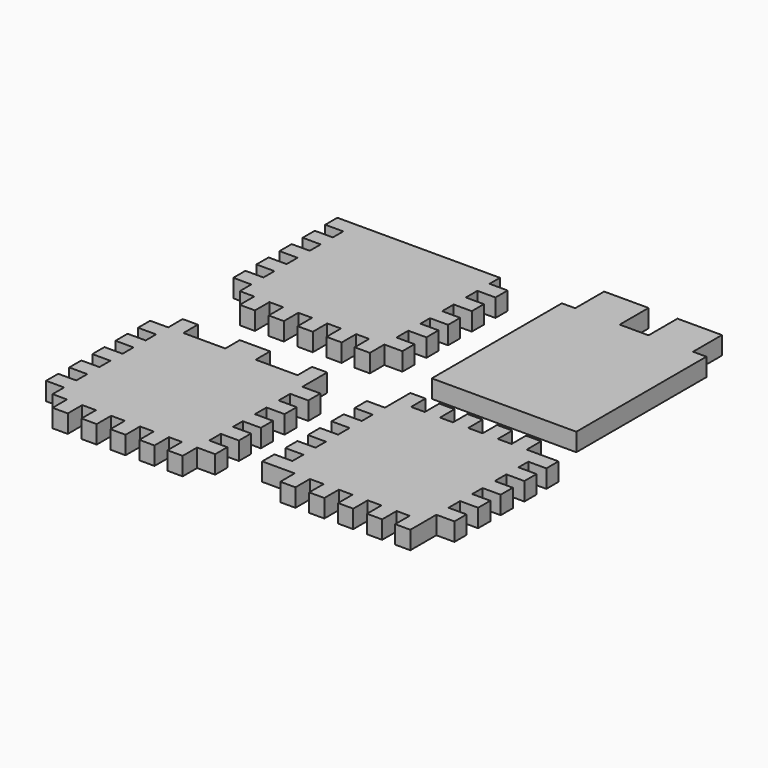
from build123d import *

# Parameters (mm, degrees)
F0_W     = 5.334
F0_H     = 6.35
F0_W_2   = 6.35
F0_H_2   = 5.334
F1_DEPTH = 6.35
F2_W     = 5.334
F2_H     = 6.35
F2_W_2   = 6.35
F2_H_2   = 5.334
F3_DEPTH = 6.35
F4_W     = 5.334
F4_H     = 6.35
F4_W_2   = 6.35
F4_H_2   = 5.334
F5_DEPTH = 6.35
F6_W     = 15.621
F6_H     = 12.7
F7_DEPTH = 6.35


with BuildPart() as f1:
    # F0 (on Top) → F1 (new body)
    with BuildSketch(Plane.XY):
        with Locations((-13.474236, 14.841236)):
            Rectangle(F0_W, F0_H)
        Polygon((-16.141236, 18.016236), (-10.807236, 18.016236), (-10.807236, 23.350236), (-10.807236, 28.557236), (-10.807236, 33.891236), (-10.807236, 38.082236), (-10.807236, 43.416236), (-10.807236, 48.496236), (-10.807236, 53.830236), (-10.807236, 58.910236), (-10.807236, 64.244236), (-10.807236, 68.816236), (-61.607236, 68.816236), (-61.607236, 63.482236), (-61.607236, 58.910236), (-61.607236, 53.576236), (-61.607236, 48.750236), (-61.607236, 43.416236), (-61.607236, 38.590236), (-61.607236, 33.256236), (-61.607236, 28.430236), (-61.607236, 23.096236), (-61.607236, 18.016236), (-56.527236, 18.016236), (-51.193236, 18.016236), (-46.367236, 18.016236), (-41.033236, 18.016236), (-36.207236, 18.016236), (-30.873236, 18.016236), (-26.047236, 18.016236), (-20.713236, 18.016236), align=None)
        with Locations((-7.632236, 20.683236)):
            Rectangle(F0_W_2, F0_H_2)
        with Locations((-23.380236, 14.841236)):
            Rectangle(F0_W, F0_H)
        with Locations((-7.632236, 31.224236)):
            Rectangle(F0_W_2, F0_H_2)
        with Locations((-33.540236, 14.841236)):
            Rectangle(F0_W, F0_H)
        with Locations((-7.632236, 40.749236)):
            Rectangle(F0_W_2, F0_H_2)
        with Locations((-43.700236, 14.841236)):
            Rectangle(F0_W, F0_H)
        with Locations((-7.632236, 51.163236)):
            Rectangle(F0_W_2, F0_H_2)
        with Locations((-53.860236, 14.841236)):
            Rectangle(F0_W, F0_H)
        with Locations((-7.632236, 61.577236)):
            Rectangle(F0_W_2, F0_H_2)
        with Locations((-64.782236, 25.763236)):
            Rectangle(F0_W_2, F0_H_2)
        with Locations((-64.782236, 66.149236)):
            Rectangle(F0_W_2, F0_H_2)
        with Locations((-64.782236, 35.923236)):
            Rectangle(F0_W_2, F0_H_2)
        with Locations((-64.782236, 56.243236)):
            Rectangle(F0_W_2, F0_H_2)
        with Locations((-64.782236, 46.083236)):
            Rectangle(F0_W_2, F0_H_2)
    extrude(amount=F1_DEPTH)


with BuildPart() as f3:
    # F2 (on Top) → F3 (new body)
    with BuildSketch(Plane.XY):
        with Locations((15.418468, -3.175)):
            Rectangle(F2_W, F2_H)
        Polygon((18.085468, -6.35), (12.751468, -6.35), (12.751468, -11.176), (12.751468, -16.51), (12.751468, -21.336), (12.751468, -26.67), (12.751468, -31.75), (12.751468, -37.084), (12.751468, -41.656), (12.751468, -46.99), (12.751468, -51.816), (12.751468, -57.15), (17.831468, -57.15), (23.165468, -57.15), (27.991468, -57.15), (33.325468, -57.15), (38.151468, -57.15), (43.485468, -57.15), (48.311468, -57.15), (53.645468, -57.15), (58.217468, -57.15), (63.551468, -57.15), (63.551468, -52.07), (63.551468, -46.736), (63.551468, -41.656), (63.551468, -36.322), (63.551468, -31.75), (63.551468, -26.416), (63.551468, -21.336), (63.551468, -16.002), (63.551468, -11.684), (63.551468, -6.35), (58.725468, -6.35), (53.391468, -6.35), (48.565468, -6.35), (43.231468, -6.35), (38.151468, -6.35), (32.817468, -6.35), (28.245468, -6.35), (22.911468, -6.35), align=None)
        with Locations((9.576468, -13.843)):
            Rectangle(F2_W_2, F2_H_2)
        with Locations((25.578468, -3.175)):
            Rectangle(F2_W, F2_H)
        with Locations((9.576468, -24.003)):
            Rectangle(F2_W_2, F2_H_2)
        with Locations((35.484468, -3.175)):
            Rectangle(F2_W, F2_H)
        with Locations((9.576468, -34.417)):
            Rectangle(F2_W_2, F2_H_2)
        with Locations((45.898468, -3.175)):
            Rectangle(F2_W, F2_H)
        with Locations((9.576468, -44.323)):
            Rectangle(F2_W_2, F2_H_2)
        with Locations((56.058468, -3.175)):
            Rectangle(F2_W, F2_H)
        with Locations((9.576468, -54.483)):
            Rectangle(F2_W_2, F2_H_2)
        with Locations((66.726468, -9.017)):
            Rectangle(F2_W_2, F2_H_2)
        with Locations((20.498468, -60.325)):
            Rectangle(F2_W, F2_H)
        with Locations((66.726468, -18.669)):
            Rectangle(F2_W_2, F2_H_2)
        with Locations((30.658468, -60.325)):
            Rectangle(F2_W, F2_H)
        with Locations((66.726468, -29.083)):
            Rectangle(F2_W_2, F2_H_2)
        with Locations((40.818468, -60.325)):
            Rectangle(F2_W, F2_H)
        with Locations((66.726468, -38.989)):
            Rectangle(F2_W_2, F2_H_2)
        with Locations((50.978468, -60.325)):
            Rectangle(F2_W, F2_H)
        with Locations((66.726468, -49.403)):
            Rectangle(F2_W_2, F2_H_2)
        with Locations((60.884468, -60.325)):
            Rectangle(F2_W, F2_H)
    extrude(amount=F3_DEPTH)


with BuildPart() as f5:
    # F4 (on Top) → F5 (new body)
    with BuildSketch(Plane.XY):
        with Locations((-15.350926, -65.0607)):
            Rectangle(F4_W, F4_H)
        Polygon((-18.017926, -61.8857), (-12.683926, -61.8857), (-12.683926, -56.5517), (-12.683926, -51.4717), (-12.683926, -46.1377), (-12.683926, -41.8197), (-12.683926, -36.4857), (-12.683926, -31.4057), (-12.683926, -26.0717), (-12.683926, -20.9917), (-12.683926, -15.6577), (-12.683926, -11.0857), (-18.017926, -11.0857), (-23.127927, -11.0857), (-32.749926, -11.0857), (-38.083926, -11.0857), (-43.417926, -11.0857), (-56.54192, -11.0857), (-58.149926, -11.0857), (-63.483926, -11.0857), (-63.483926, -16.4197), (-63.483926, -20.9917), (-63.483926, -26.3257), (-63.483926, -31.1517), (-63.483926, -36.4857), (-63.483926, -41.3117), (-63.483926, -46.6457), (-63.483926, -51.4717), (-63.483926, -56.8057), (-63.483926, -61.8857), (-58.403926, -61.8857), (-53.069926, -61.8857), (-48.243926, -61.8857), (-42.909926, -61.8857), (-38.083926, -61.8857), (-32.749926, -61.8857), (-27.923926, -61.8857), (-22.589926, -61.8857), align=None)
        with Locations((-9.508926, -59.2187)):
            Rectangle(F4_W_2, F4_H_2)
        with Locations((-25.256926, -65.0607)):
            Rectangle(F4_W, F4_H)
        with Locations((-9.508926, -48.8047)):
            Rectangle(F4_W_2, F4_H_2)
        with Locations((-35.416926, -65.0607)):
            Rectangle(F4_W, F4_H)
        with Locations((-9.508926, -39.1527)):
            Rectangle(F4_W_2, F4_H_2)
        with Locations((-45.576926, -65.0607)):
            Rectangle(F4_W, F4_H)
        with Locations((-9.508926, -28.7387)):
            Rectangle(F4_W_2, F4_H_2)
        with Locations((-55.736926, -65.0607)):
            Rectangle(F4_W, F4_H)
        with Locations((-9.508926, -18.3247)):
            Rectangle(F4_W_2, F4_H_2)
        with Locations((-15.350926, -7.9107)):
            Rectangle(F4_W, F4_H)
        with Locations((-66.658926, -54.1387)):
            Rectangle(F4_W_2, F4_H_2)
        with Locations((-66.658926, -43.9787)):
            Rectangle(F4_W_2, F4_H_2)
        with Locations((-35.416926, -7.9107)):
            Rectangle(F4_W, F4_H)
        with Locations((-40.750926, -7.9107)):
            Rectangle(F4_W, F4_H)
        with Locations((-66.658926, -33.8187)):
            Rectangle(F4_W_2, F4_H_2)
        with Locations((-66.658926, -23.6587)):
            Rectangle(F4_W_2, F4_H_2)
        with Locations((-60.816926, -7.9107)):
            Rectangle(F4_W, F4_H)
        with Locations((-66.658926, -13.7527)):
            Rectangle(F4_W_2, F4_H_2)
    extrude(amount=F5_DEPTH)


with BuildPart() as f7:
    # F6 (on Top) → F7 (new body)
    with BuildSketch(Plane.XY):
        Polygon((16.623701, 67.601034), (11.924701, 67.601034), (11.924701, 10.451034), (62.724701, 10.451034), (62.724701, 67.601034), (58.025701, 67.601034), (42.404701, 67.601034), (37.324701, 67.601034), (32.244701, 67.601034), align=None)
        with Locations((24.434201, 73.951034)):
            Rectangle(F6_W, F6_H)
        with Locations((50.215201, 73.951034)):
            Rectangle(F6_W, F6_H)
    extrude(amount=F7_DEPTH)


solid = Compound([f1.part, f3.part, f5.part, f7.part])
